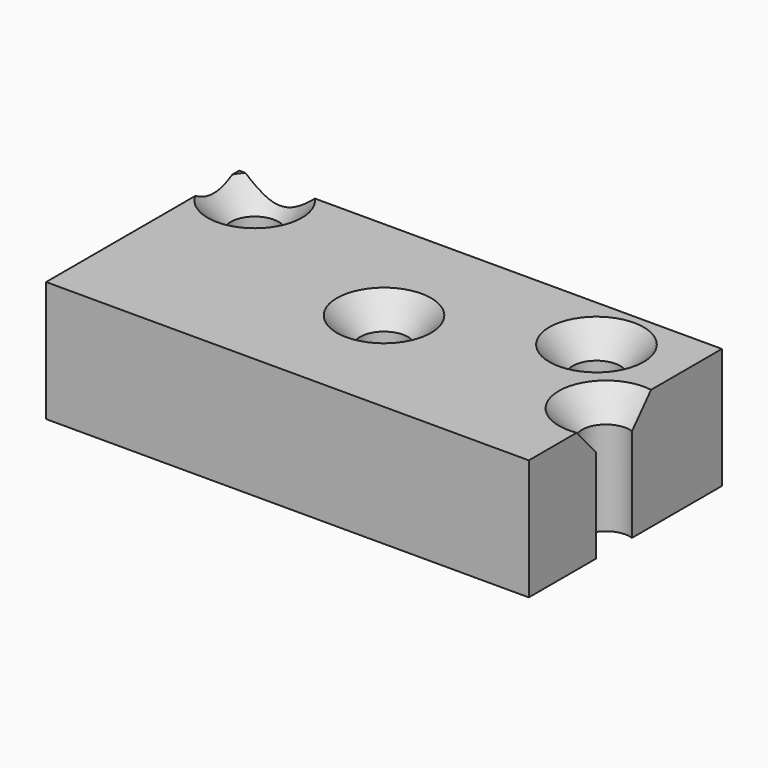
from build123d import *

# Parameters (mm, degrees)
F0_W           = 101.6
F0_H           = 50.8
F1_DEPTH       = 25.4
F4_D           = 10.0838
F4_CSINK_D     = 19.8374
F4_CSINK_ANGLE = 82


with BuildPart() as f1:
    # F0 (on Top) → F1 (new body)
    with BuildSketch(Plane.XY):
        Rectangle(F0_W, F0_H)
    extrude(amount=F1_DEPTH)

    # F4 (through all)
    with Locations(Plane.XY.offset(25.4)):
        with Locations((-42.1674363315, 18.7050420791), (0, 0), (33.7339453399, 13.7314470485), (49.133181572, -3.0262232758)):
            CounterSinkHole(F4_D / 2, F4_CSINK_D / 2, counter_sink_angle=F4_CSINK_ANGLE)


solid = f1.part
